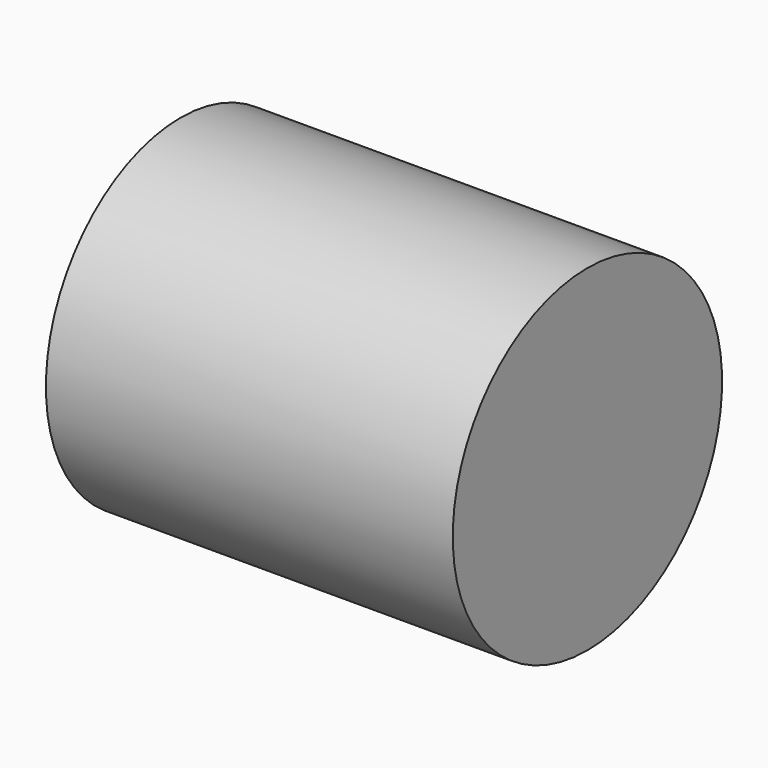
from build123d import *

# Parameters (mm, degrees)
F0_W = 188.966364
F0_H = 78.175336


with BuildPart() as f1:
    # F0 (on Front) → F1 (revolve)
    with BuildSketch(Plane.XZ):
        Rectangle(F0_W, F0_H)
    revolve(axis=Axis((0, 0, -39.087668), (-1, 0, 0)))


solid = f1.part
